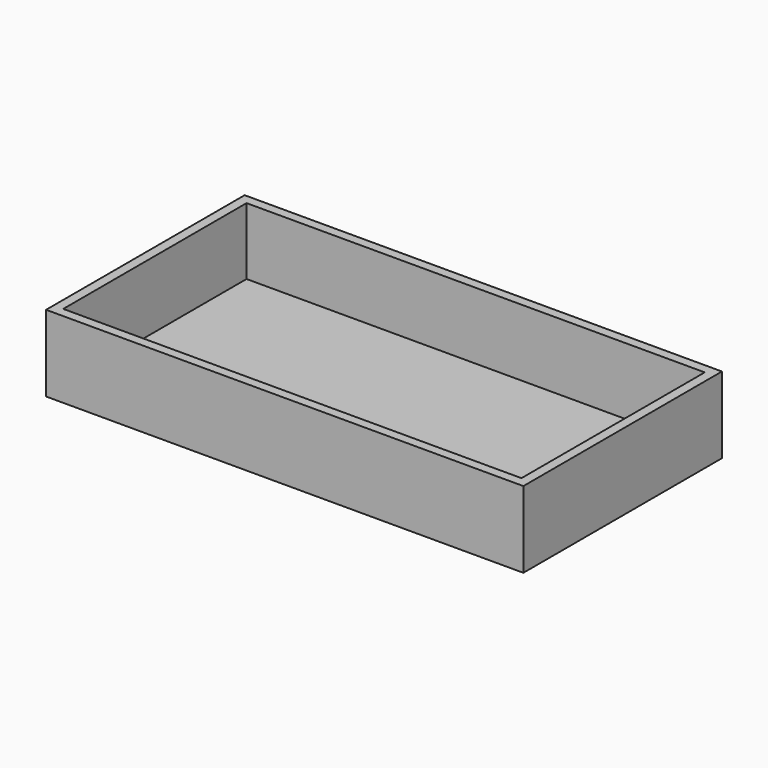
from build123d import *

# Parameters (mm, degrees)
F0_W     = 158.75
F0_H     = 82.55
F1_DEPTH = 25.4
F2_W     = 152.4
F2_H     = 76.2
F3_DEPTH = 22.225
F4_ANGLE = 180


with BuildPart() as f1:
    # F0 (on Top) → F1 (new body)
    with BuildSketch(Plane.XY):
        Rectangle(F0_W, F0_H)
    extrude(amount=F1_DEPTH)

    # F2 (on Top) → F3 (cut)
    with BuildSketch(Plane.XY):
        Rectangle(F2_W, F2_H)
    extrude(amount=F3_DEPTH, mode=Mode.SUBTRACT)


with BuildPart() as f1_1:
    # F4: moved
    add(f1.part.rotate(Axis((79.375, 0, 0), (0, -1, 0)), F4_ANGLE))


solid = f1_1.part
